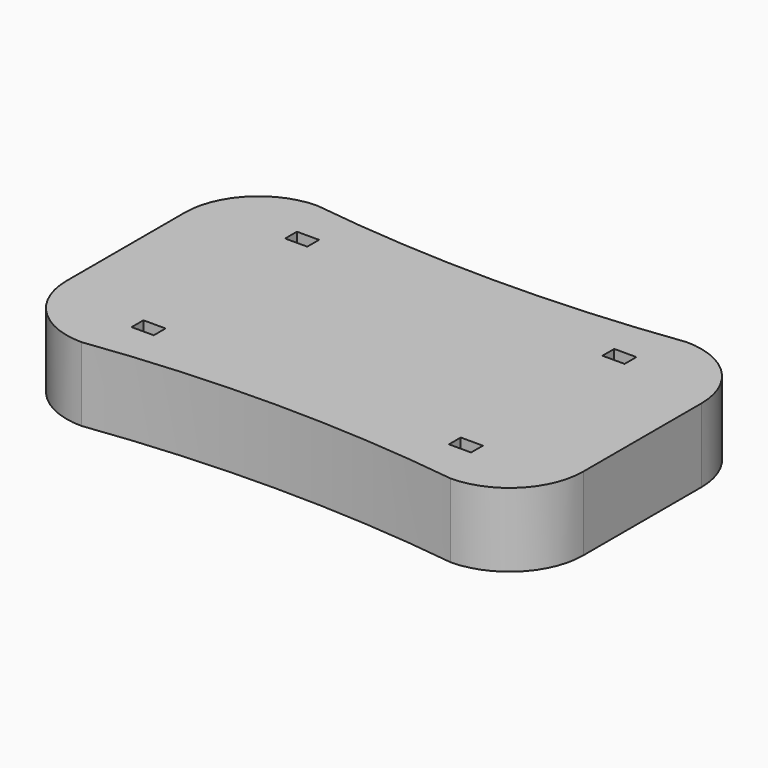
from build123d import *

# Parameters (mm, degrees)
F0_W     = 7.62
F0_H     = 5.08
F1_DEPTH = 25.4


with BuildPart() as f1:
    # F0 (on Top) → F1 (new body)
    with BuildSketch(Plane.XY):
        with BuildLine():
            ThreePointArc((63.5, -50.8), (81.460512, -43.360512), (88.9, -25.4))
            Line((88.9, -25.4), (88.9, 25.4))
            ThreePointArc((88.9, 25.4), (81.460512, 43.360512), (63.5, 50.8))
            ThreePointArc((63.5, 50.8), (0, 46.582226), (-63.5, 50.8))
            ThreePointArc((-63.5, 50.8), (-81.460512, 43.360512), (-88.9, 25.4))
            Line((-88.9, 25.4), (-88.9, -25.4))
            ThreePointArc((-88.9, -25.4), (-81.460512, -43.360512), (-63.5, -50.8))
            ThreePointArc((-63.5, -50.8), (0, -46.582226), (63.5, -50.8))
        make_face()
        with Locations((-54.61, -33.02)):
            Rectangle(F0_W, F0_H, mode=Mode.SUBTRACT)
        with Locations((54.61, -33.02)):
            Rectangle(F0_W, F0_H, mode=Mode.SUBTRACT)
        with Locations((-54.61, 33.02)):
            Rectangle(F0_W, F0_H, mode=Mode.SUBTRACT)
        with Locations((54.61, 33.02)):
            Rectangle(F0_W, F0_H, mode=Mode.SUBTRACT)
    extrude(amount=F1_DEPTH)


solid = f1.part
